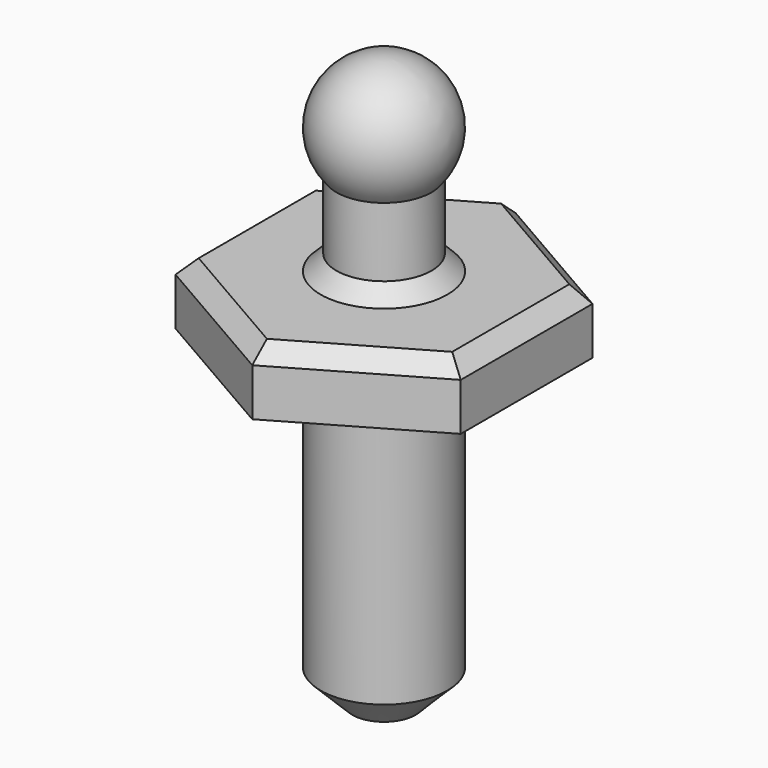
from build123d import *

# Parameters (mm, degrees)
F1_DEPTH = 2
F2_R     = 2
F3_DEPTH = 10
F4_SIZE  = 1
F5_R     = 1.5
F6_DEPTH = 3
F9_SIZE  = 0.5


with BuildPart() as f1:
    # F0 (on Top) → F1 (new body)
    with BuildSketch(Plane.XY):
        Polygon((4.5, -2.5980762114), (4.5, 2.5980762114), (0, 5.1961524227), (-4.5, 2.5980762114), (-4.5, -2.5980762114), (0, -5.1961524227), align=None)
    extrude(amount=F1_DEPTH)

    # F2 (on face) → F3 (join)
    with BuildSketch(Plane(origin=(0, 0, 0), x_dir=(1, 0, 0), z_dir=(0, 0, -1))):
        Circle(F2_R)
    extrude(amount=F3_DEPTH)

    # F4
    f4_edges = [f1.edges().sort_by_distance(p)[0] for p in [
        (-2, 0, -10),
    ]]
    chamfer(f4_edges, length=F4_SIZE)

    # F5 (on face) → F6 (join)
    with BuildSketch(Plane.XY.offset(2)):
        Circle(F5_R)
    extrude(amount=F6_DEPTH)

    # F7 (on Front) → F8 (revolve)
    with BuildSketch(Plane.XZ):
        with BuildLine():
            Line((1.5, 5), (1.5, 4.6771243445))
            ThreePointArc((1.5, 4.6771243445), (1.8228756555, 6.8228756555), (0, 8))
            Line((0, 8), (0, 5))
            Line((0, 5), (1.5, 5))
        make_face()
    revolve(axis=Axis((0, 0, 2), (0, 0, 1)))

    # F9
    f9_edges = [f1.edges().sort_by_distance(p)[0] for p in [
        (2.25, -3.897114, 2),
        (4.5, 0, 2),
        (2.25, 3.897114, 2),
        (-2.25, 3.897114, 2),
        (-2.25, -3.897114, 2),
        (-4.5, 0, 2),
        (-1.5, 0, 2),
    ]]
    chamfer(f9_edges, length=F9_SIZE)


solid = f1.part
